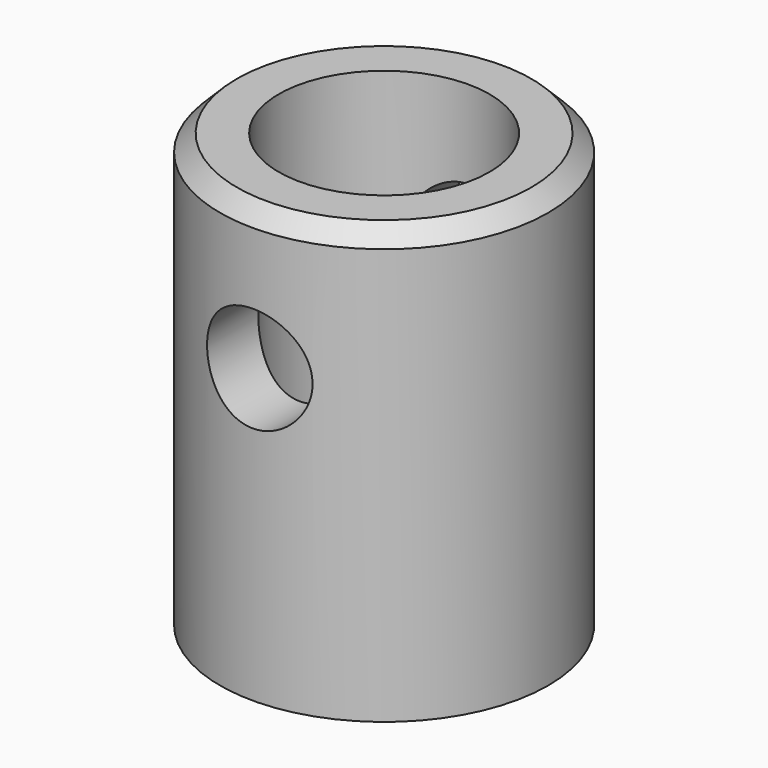
from build123d import *

# Parameters (mm, degrees)
F0_R     = 14.8209
F0_R_2   = 9.525
F1_DEPTH = 39.116
F2_SIZE2 = 1.524
F2_SIZE  = 1.524
F5_D     = 9.525


with BuildPart() as f1:
    # F0 (on Top) → F1 (new body)
    with BuildSketch(Plane.XY):
        Circle(F0_R)
        Circle(F0_R_2, mode=Mode.SUBTRACT)
    extrude(amount=F1_DEPTH)

    # F2
    f2_edges = [f1.edges().sort_by_distance(p)[0] for p in [
        (-14.8209, 0, 39.116),
    ]]
    chamfer(f2_edges, length=F2_SIZE, length2=F2_SIZE2)

    # F5 (through all)
    with Locations(Plane.XZ.offset(14.8209)):
        with Locations((0, 26.416)):
            Hole(F5_D / 2)


solid = f1.part
